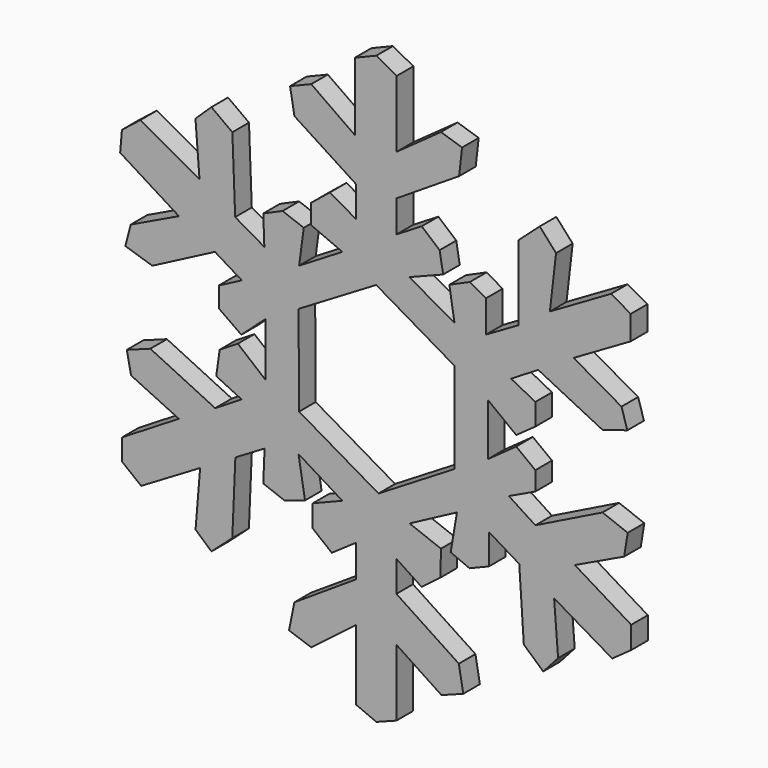
from build123d import *

# Parameters (mm, degrees)
F1_DEPTH = 0.889


with BuildPart() as f1:
    # F0 (on Front) → F1 (new body)
    with BuildSketch(Plane.XZ):
        Polygon((-7.766421, 2.049147), (-9.697749, 3.149271), (-8.251928, 3.717801), (-8.401837, 4.58542), (-9.168207, 5.237091), (-10.238115, 4.58542), (-10.238115, 5.944121), (-7.570077, 7.6432), (-7.442288, 8.765532), (-8.34682, 9.053338), (-10.238115, 7.696539), (-10.238115, 10.554039), (-11.1125, 11.030715), (-12.026622, 10.656827), (-12.026622, 7.737654), (-13.897186, 9.053338), (-14.801892, 8.683302), (-14.616874, 7.614309), (-11.972634, 5.904664), (-11.972634, 4.58542), (-13.099057, 5.233018), (-13.897186, 4.58542), (-13.897186, 3.738368), (-12.566103, 3.167905), (-14.415789, 2.044265), (-14.217429, 3.537872), (-15.124985, 3.874964), (-15.949978, 3.513755), (-15.90289, 2.267294), (-17.152183, 2.986197), (-17.271507, 6.144799), (-18.168139, 6.798936), (-18.851348, 6.144799), (-18.678295, 3.910622), (-21.210807, 5.319494), (-21.997354, 4.69717), (-22.072788, 3.808485), (-19.557991, 2.238555), (-21.62216, 1.25008), (-21.850014, 0.367141), (-20.696388, 0), (-18.017134, 1.395444), (-16.867385, 0.695083), (-17.854148, 0.181145), (-17.854148, -0.682273), (-16.887943, -1.360672), (-15.860065, -0.435582), (-15.860065, -2.717471), (-17.038523, -1.745301), (-17.813032, -2.224089), (-17.962941, -3.267605), (-16.876877, -3.790525), (-18.007542, -4.489482), (-20.782813, -3.153241), (-21.790132, -3.523277), (-21.605115, -4.427809), (-19.562521, -5.39587), (-21.992089, -6.886292), (-21.992089, -7.802464), (-21.173319, -8.447639), (-18.651634, -6.953308), (-18.847212, -9.336909), (-18.167692, -9.941154), (-17.27537, -9.146621), (-17.142811, -6.062488), (-15.893939, -5.322416), (-15.948845, -6.659137), (-15.032252, -7.007643), (-14.164055, -6.716586), (-14.440246, -5.05889), (-12.565052, -6.207264), (-13.832696, -6.716586), (-13.832696, -7.661451), (-13.018659, -8.315589), (-11.986575, -7.603306), (-11.986575, -8.984262), (-14.617661, -10.699556), (-14.847309, -11.83401), (-13.893868, -12.164047), (-11.984149, -10.699556), (-11.984149, -13.696965), (-11.1125, -14.067002), (-10.252469, -13.738081), (-10.252469, -10.878737), (-8.323933, -12.14982), (-7.392148, -11.79901), (-7.580517, -10.724198), (-10.252469, -8.963136), (-10.252469, -7.642987), (-9.176794, -8.351956), (-8.370036, -7.740776), (-8.345589, -6.640652), (-9.690185, -6.127262), (-7.661067, -5.051585), (-7.929987, -6.640652), (-7.123229, -6.982913), (-6.292025, -6.640652), (-6.292025, -5.344951), (-4.996324, -6.127262), (-4.800489, -9.098248), (-3.969542, -9.843235), (-3.333915, -9.134266), (-3.505045, -6.934019), (-1.017748, -8.396618), (-0.204675, -7.814118), (-0.204675, -6.860677), (-2.616602, -5.393827), (-0.508032, -4.391492), (-0.355237, -3.444164), (-1.433989, -3.028562), (-4.306216, -4.446499), (-5.440253, -3.713083), (-4.306216, -3.175245), (-4.306216, -2.368488), (-5.126319, -1.7468), (-6.335333, -2.61296), (-6.335333, -0.385276), (-5.125197, -1.31427), (-4.306216, -0.727537), (-4.306216, 0.201456), (-5.345222, 0.739294), (-4.18398, 1.448263), (-1.433989, 0.083229), (-0.370219, 0.411185), (-0.620721, 1.223725), (-2.670654, 2.391408), (-0.225309, 3.809345), (-0.225309, 4.845845), (-1.068589, 5.326194), (-3.684515, 3.809345), (-3.420916, 6.093763), (-4.120606, 6.873983), (-5.028335, 6.059946), (-5.028335, 2.855904), (-6.419651, 2.049147), (-6.419651, 3.41819), (-7.106347, 3.809345), (-7.986446, 3.41819), align=None)
        Polygon((-14.416056, -3.451471), (-14.440504, 0.411185), (-11.115686, 2.391408), (-7.766421, 0.435633), (-7.766421, -3.451471), (-11.017897, -5.431693), align=None, mode=Mode.SUBTRACT)
    extrude(amount=F1_DEPTH)


solid = f1.part
